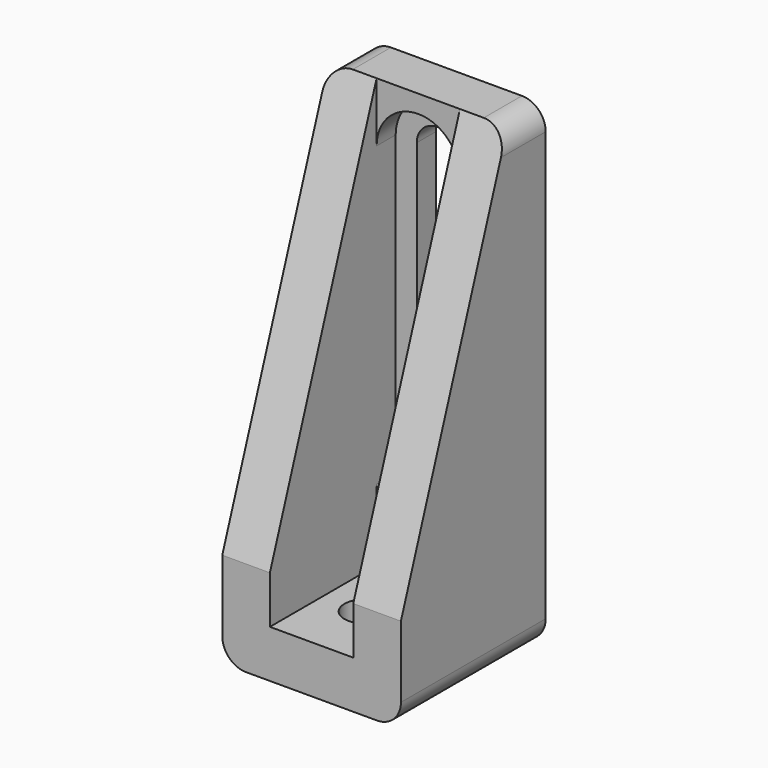
from build123d import *

# Parameters (mm, degrees)
F0_W     = 15
F0_H     = 15.2
F0_R     = 1.725
F1_DEPTH = 4
F3_DEPTH = 36
F5_DEPTH = 2
F6_DEPTH = 4
F7_SIZE2 = 11.2
F7_SIZE  = 32
F8_R     = 2


with BuildPart() as f1:
    # F0 (on Top) → F1 (new body)
    with BuildSketch(Plane.XY):
        Rectangle(F0_W, F0_H)
        with Locations((0, -2)):
            Circle(F0_R, mode=Mode.SUBTRACT)
    extrude(amount=F1_DEPTH)

    # F2 (on face) → F3 (join)
    with BuildSketch(Plane.XY.offset(4)):
        Polygon((-7.5, 7.6), (-7.5, -7.6), (-3.5, -7.6), (-3.5, -2), (-3.5, 3.6), (3.5, 3.6), (3.5, -2), (3.5, -7.6), (7.5, -7.6), (7.5, 7.6), align=None)
    extrude(amount=F3_DEPTH)

    # F4 (on face) → F5 (cut)
    with BuildSketch(Plane.XZ.offset(-3.6)):
        with BuildLine():
            Line((-1.725, 13.045385854), (-1.725, 31.954614146))
            ThreePointArc((-1.725, 31.954614146), (-3.0238634228, 33.2375443268), (-3.5, 35))
            Line((-3.5, 35), (-3.5, 10))
            ThreePointArc((-3.5, 10), (-3.0238634228, 11.7624556732), (-1.725, 13.045385854))
        make_face()
        with BuildLine():
            ThreePointArc((3.5, 35), (3.0238634228, 33.2375443268), (1.725, 31.954614146))
            Line((1.725, 31.954614146), (1.725, 13.045385854))
            ThreePointArc((1.725, 13.045385854), (3.0238634228, 11.7624556732), (3.5, 10))
            Line((3.5, 10), (3.5, 35))
        make_face()
        with BuildLine():
            ThreePointArc((-1.725, 35), (0, 36.725), (1.725, 35))
            Line((1.725, 35), (1.725, 31.954614146))
            ThreePointArc((1.725, 31.954614146), (3.0238634228, 33.2375443268), (3.5, 35))
            ThreePointArc((3.5, 35), (0, 38.5), (-3.5, 35))
            ThreePointArc((-3.5, 35), (-3.0238634228, 33.2375443268), (-1.725, 31.954614146))
            Line((-1.725, 31.954614146), (-1.725, 35))
        make_face()
        with BuildLine():
            ThreePointArc((3.5, 10), (3.0238634228, 11.7624556732), (1.725, 13.045385854))
            Line((1.725, 13.045385854), (1.725, 10))
            ThreePointArc((1.725, 10), (0, 8.275), (-1.725, 10))
            Line((-1.725, 10), (-1.725, 13.045385854))
            ThreePointArc((-1.725, 13.045385854), (-3.0238634228, 11.7624556732), (-3.5, 10))
            ThreePointArc((-3.5, 10), (0, 6.5), (3.5, 10))
        make_face()
    extrude(amount=-F5_DEPTH, mode=Mode.SUBTRACT)

    # F4 (on face) → F6 (cut, through all)
    with BuildSketch(Plane.XZ.offset(-3.6)):
        with BuildLine():
            ThreePointArc((-1.725, 35), (0, 33.275), (1.725, 35))
            ThreePointArc((1.725, 35), (0, 36.725), (-1.725, 35))
        make_face()
        with BuildLine():
            Line((1.725, 31.954614146), (1.725, 35))
            ThreePointArc((1.725, 35), (0, 33.275), (-1.725, 35))
            Line((-1.725, 35), (-1.725, 31.954614146))
            ThreePointArc((-1.725, 31.954614146), (0, 31.5), (1.725, 31.954614146))
        make_face()
        with BuildLine():
            Line((1.725, 13.045385854), (1.725, 31.954614146))
            ThreePointArc((1.725, 31.954614146), (0, 31.5), (-1.725, 31.954614146))
            Line((-1.725, 31.954614146), (-1.725, 13.045385854))
            ThreePointArc((-1.725, 13.045385854), (0, 13.5), (1.725, 13.045385854))
        make_face()
        with BuildLine():
            Line((1.725, 10), (1.725, 13.045385854))
            ThreePointArc((1.725, 13.045385854), (0, 13.5), (-1.725, 13.045385854))
            Line((-1.725, 13.045385854), (-1.725, 10))
            ThreePointArc((-1.725, 10), (0, 11.725), (1.725, 10))
        make_face()
        with BuildLine():
            ThreePointArc((-1.725, 10), (0, 8.275), (1.725, 10))
            ThreePointArc((1.725, 10), (0, 11.725), (-1.725, 10))
        make_face()
    extrude(amount=-F6_DEPTH, mode=Mode.SUBTRACT)

    # F7
    f7_edges = [f1.edges().sort_by_distance(p)[0] for p in [
        (5.5, -7.6, 40),
        (-5.5, -7.6, 40),
    ]]
    f7_side = f1.faces().sort_by_distance((-7.0728, -7.6, 20))[0]
    chamfer(f7_edges, length=F7_SIZE, length2=F7_SIZE2, reference=f7_side)

    # F8
    f8_edges = [f1.edges().sort_by_distance(p)[0] for p in [
        (-7.5, 5.6, 40),
        (7.5, 5.6, 40),
        (-7.5, 0, 0),
        (7.5, 0, 0),
    ]]
    fillet(f8_edges, radius=F8_R)


solid = f1.part
